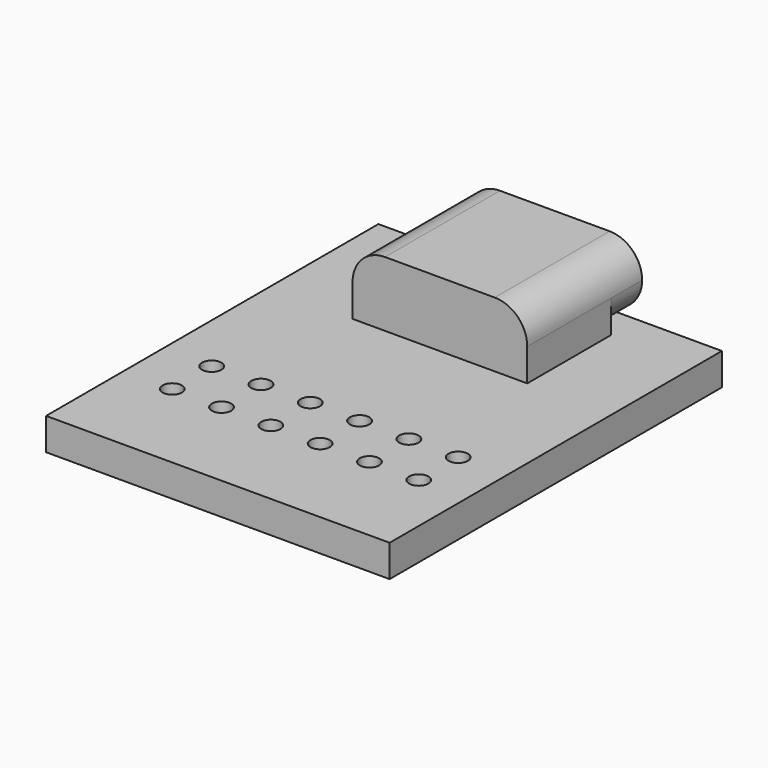
from build123d import *

# Parameters (mm, degrees)
SKETCH_W        = 17.7
SKETCH_H        = 21.4
PAD_DEPTH       = 1.65
SKETCH001_W     = 9
SKETCH001_H     = 7.4
PAD001_DEPTH    = 3.35
SKETCH002_R     = 0.5
POCKET_DEPTH    = 1.651
FILLET_R        = 1.675
POCKET001_DEPTH = 2
POCKET002_DEPTH = 4.5
POCKET003_DEPTH = 0.35


with BuildPart() as part:
    # Sketch → Pad (new body)
    with BuildSketch(Plane.XY):
        Rectangle(SKETCH_W, SKETCH_H)
    extrude(amount=PAD_DEPTH)

    # Sketch001 (on Face6 of Pad) → Pad001 (join)
    with BuildSketch(Plane.XY.offset(1.65)):
        with Locations((0, 7.3)):
            Rectangle(SKETCH001_W, SKETCH001_H)
    extrude(amount=PAD001_DEPTH)

    # Sketch002 (on Face5 of Pad001) → Pocket (cut, through all)
    with BuildSketch(Plane.XY.offset(1.65)):
        with Locations((-6.35, -3.16)):
            Circle(SKETCH002_R)
        with Locations((-3.81, -3.16)):
            Circle(SKETCH002_R)
        with Locations((-1.27, -3.16)):
            Circle(SKETCH002_R)
        with Locations((1.27, -3.16)):
            Circle(SKETCH002_R)
        with Locations((3.81, -3.16)):
            Circle(SKETCH002_R)
        with Locations((6.35, -3.16)):
            Circle(SKETCH002_R)
        with Locations((-6.35, -5.7)):
            Circle(SKETCH002_R)
        with Locations((-3.81, -5.7)):
            Circle(SKETCH002_R)
        with Locations((-1.27, -5.7)):
            Circle(SKETCH002_R)
        with Locations((1.27, -5.7)):
            Circle(SKETCH002_R)
        with Locations((3.81, -5.7)):
            Circle(SKETCH002_R)
        with Locations((6.35, -5.7)):
            Circle(SKETCH002_R)
    extrude(amount=-POCKET_DEPTH, mode=Mode.SUBTRACT)

    # Fillet
    fillet_edges = [part.edges().sort_by_distance(p)[0] for p in [
        (-4.5, 7.3, 5),
        (4.5, 7.3, 5),
    ]]
    fillet(fillet_edges, radius=FILLET_R)

    # Sketch003 (on Face5 of Fillet) → Pocket001 (cut)
    with BuildSketch(Plane(origin=(0, 11, 0), x_dir=(-1, 0, 0), z_dir=(0, 1, 0))):
        with BuildLine():
            ThreePointArc((-4.5, 3.325), (-4.009404, 2.140596), (-2.825, 1.65))
            Line((-2.825, 1.65), (-4.5, 1.65))
            Line((-4.5, 3.325), (-4.5, 1.65))
        make_face()
        with BuildLine():
            ThreePointArc((2.825, 1.65), (4.009404, 2.140596), (4.5, 3.325))
            Line((4.5, 3.325), (4.5, 1.65))
            Line((2.825, 1.65), (4.5, 1.65))
        make_face()
    extrude(amount=-POCKET001_DEPTH, mode=Mode.SUBTRACT)

    # Sketch004 (on Face6 of Pocket001) → Pocket002 (cut)
    with BuildSketch(Plane(origin=(0, 11, 0), x_dir=(-1, 0, 0), z_dir=(0, 1, 0))):
        with BuildLine():
            ThreePointArc((-2.825, 4.7), (-4.2, 3.325), (-2.825, 1.95))
            Line((-2.825, 1.95), (2.825, 1.95))
            ThreePointArc((2.825, 1.95), (4.2, 3.325), (2.825, 4.7))
            Line((2.825, 4.7), (-2.825, 4.7))
        make_face()
        with BuildLine():
            ThreePointArc((-2.825, 3.65), (-3.15, 3.325), (-2.825, 3))
            Line((-2.825, 3), (2.825, 3))
            ThreePointArc((2.825, 3), (3.15, 3.325), (2.825, 3.65))
            Line((2.825, 3.65), (-2.825, 3.65))
        make_face(mode=Mode.SUBTRACT)
    extrude(amount=-POCKET002_DEPTH, mode=Mode.SUBTRACT)

    # Pocket002 Face38 → Pocket003 (cut)
    with BuildSketch(Plane(origin=(0, 11, 3.325), x_dir=(1, 0, 0), z_dir=(0, 1, 0))):
        with BuildLine():
            Line((-2.825, -0.325), (2.825, -0.325))
            ThreePointArc((2.825, -0.325), (3.15, 0), (2.825, 0.325))
            Line((2.825, 0.325), (-2.825, 0.325))
            ThreePointArc((-2.825, 0.325), (-3.15, 0), (-2.825, -0.325))
        make_face()
    extrude(amount=-POCKET003_DEPTH, mode=Mode.SUBTRACT)


solid = part.part
